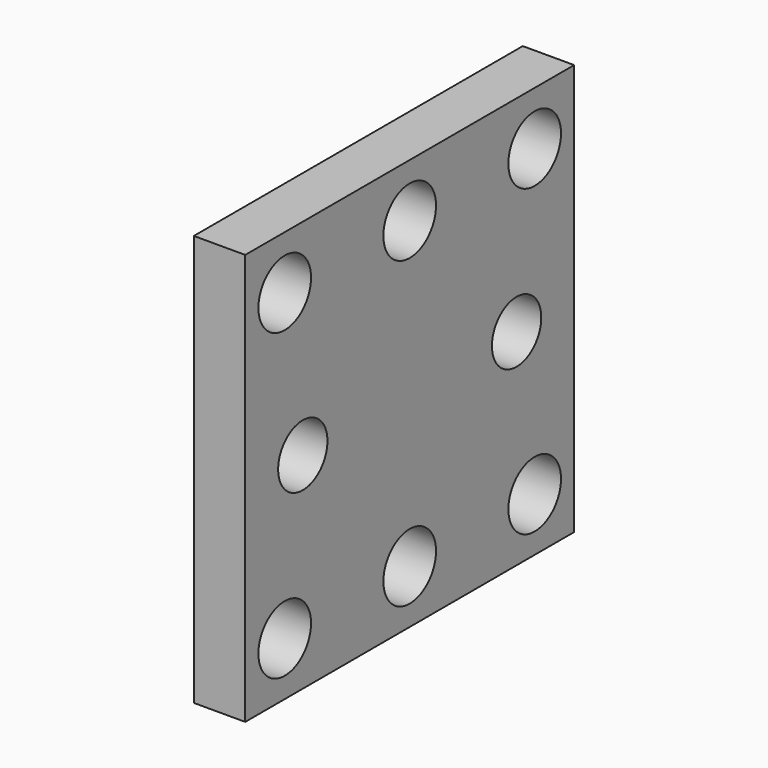
from build123d import *

# Parameters (mm, degrees)
F0_W     = 25.4
F0_H     = 25.4
F0_R     = 2.032
F1_DEPTH = 3.175
F2_R     = 1.905
F3_DEPTH = 25.4


with BuildPart() as f1:
    # F0 (on Right) → F1 (new body)
    with BuildSketch(Plane.YZ):
        with Locations((0, -1.677798)):
            Rectangle(F0_W, F0_H)
        with Locations((-9.652, -11.075798)):
            Circle(F0_R, mode=Mode.SUBTRACT)
        with Locations((0, -11.075798)):
            Circle(F0_R, mode=Mode.SUBTRACT)
        with Locations((9.652, -11.075798)):
            Circle(F0_R, mode=Mode.SUBTRACT)
        with Locations((-9.652, 7.720202)):
            Circle(F0_R, mode=Mode.SUBTRACT)
        with Locations((0, 7.720202)):
            Circle(F0_R, mode=Mode.SUBTRACT)
        with Locations((9.652, 7.720202)):
            Circle(F0_R, mode=Mode.SUBTRACT)
    extrude(amount=F1_DEPTH)

    # F2 (on face) → F3 (cut)
    with BuildSketch(Plane(origin=(0, 0, 0), x_dir=(0, -1, 0), z_dir=(-1, 0, 0))):
        with Locations((8.255, -1.677798)):
            Circle(F2_R)
        with Locations((-8.255, -1.677798)):
            Circle(F2_R)
    extrude(amount=-F3_DEPTH, mode=Mode.SUBTRACT)


solid = f1.part
